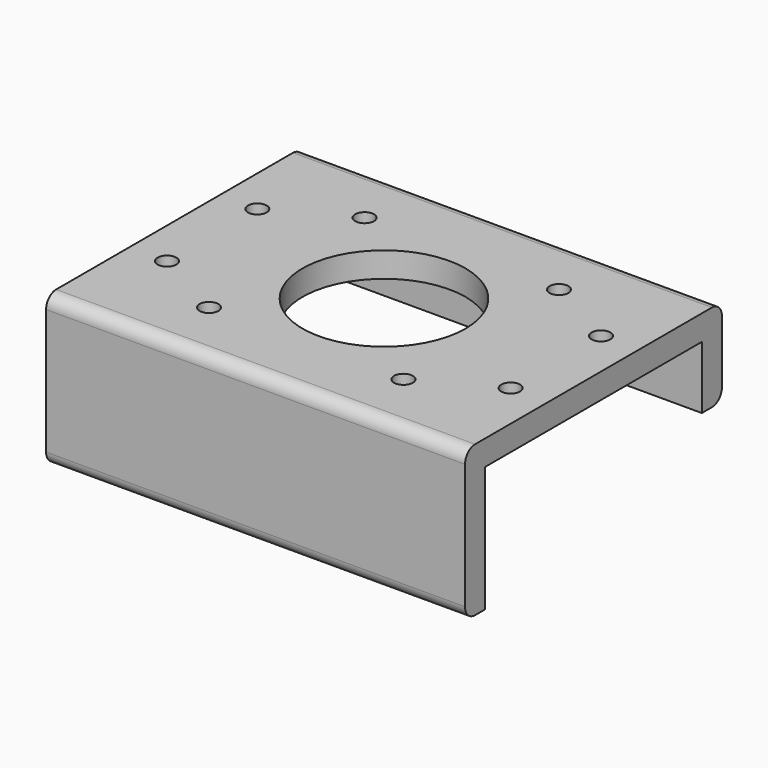
from build123d import *

# Parameters (mm, degrees)
SKETCH003_W     = 66.8
SKETCH003_H     = 42
SKETCH003_R     = 1.5
SKETCH003_R_2   = 13
PAD003_DEPTH    = 4
PAD003_FACE3_W  = 66.8
PAD003_FACE3_H  = 4
PAD004_DEPTH    = 0.6
PAD004_FACE19_W = 66.8
PAD004_FACE19_H = 4
PAD005_DEPTH    = 4
PAD005_FACE21_W = 4
PAD005_FACE21_H = 66.8
PAD006_DEPTH    = 20
PAD006_FACE1_W  = 66.8
PAD006_FACE1_H  = 4
PAD007_DEPTH    = 0.6
PAD007_FACE11_W = 66.8
PAD007_FACE11_H = 4
PAD008_DEPTH    = 4
PAD008_FACE28_W = 4
PAD008_FACE28_H = 66.8
PAD009_DEPTH    = 10
FILLET003_R     = 2


with BuildPart() as part:
    # Sketch003 → Pad003 (new body)
    with BuildSketch(Plane.XY):
        with Locations((0, -35)):
            Rectangle(SKETCH003_W, SKETCH003_H)
        with Locations((-27.4, -26)):
            Circle(SKETCH003_R, mode=Mode.SUBTRACT)
        with Locations((0, -35)):
            Circle(SKETCH003_R_2, mode=Mode.SUBTRACT)
        with Locations((27.4, -26)):
            Circle(SKETCH003_R, mode=Mode.SUBTRACT)
        with Locations((27.4, -44)):
            Circle(SKETCH003_R, mode=Mode.SUBTRACT)
        with Locations((-27.4, -44)):
            Circle(SKETCH003_R, mode=Mode.SUBTRACT)
        with Locations((-15.5, -50.5)):
            Circle(SKETCH003_R, mode=Mode.SUBTRACT)
        with Locations((15.5, -50.5)):
            Circle(SKETCH003_R, mode=Mode.SUBTRACT)
        with Locations((-15.5, -19.5)):
            Circle(SKETCH003_R, mode=Mode.SUBTRACT)
        with Locations((15.5, -19.5)):
            Circle(SKETCH003_R, mode=Mode.SUBTRACT)
    extrude(amount=PAD003_DEPTH)

    # Pad003 Face3 → Pad004 (add)
    with BuildSketch(Plane(origin=(0, -56, 2), x_dir=(-1, 0, 0), z_dir=(0, -1, 0))):
        Rectangle(PAD003_FACE3_W, PAD003_FACE3_H)
    extrude(amount=PAD004_DEPTH)

    # Pad004 Face19 → Pad005 (add)
    with BuildSketch(Plane(origin=(0, -56.6, 2), x_dir=(-1, 0, 0), z_dir=(0, -1, 0))):
        Rectangle(PAD004_FACE19_W, PAD004_FACE19_H)
    extrude(amount=PAD005_DEPTH)

    # Pad005 Face21 → Pad006 (add)
    with BuildSketch(Plane(origin=(0, -58.6, 0), x_dir=(0, -1, 0), z_dir=(0, 0, -1))):
        Rectangle(PAD005_FACE21_W, PAD005_FACE21_H)
    extrude(amount=PAD006_DEPTH)

    # Pad006 Face1 → Pad007 (add)
    with BuildSketch(Plane(origin=(0, -14, 2), x_dir=(1, 0, 0), z_dir=(0, 1, 0))):
        Rectangle(PAD006_FACE1_W, PAD006_FACE1_H)
    extrude(amount=PAD007_DEPTH)

    # Pad007 Face11 → Pad008 (add)
    with BuildSketch(Plane(origin=(0, -13.4, 2), x_dir=(1, 0, 0), z_dir=(0, 1, 0))):
        Rectangle(PAD007_FACE11_W, PAD007_FACE11_H)
    extrude(amount=PAD008_DEPTH)

    # Pad008 Face28 → Pad009 (add)
    with BuildSketch(Plane(origin=(0, -11.4, 0), x_dir=(0, -1, 0), z_dir=(0, 0, -1))):
        Rectangle(PAD008_FACE28_W, PAD008_FACE28_H)
    extrude(amount=PAD009_DEPTH)

    # Fillet003
    fillet003_edges = [part.edges().sort_by_distance(p)[0] for p in [
        (0, -60.6, -20),
        (0, -60.6, 4),
        (0, -9.4, 4),
        (0, -9.4, -10),
    ]]
    fillet(fillet003_edges, radius=FILLET003_R)


with BuildPart() as part_1:
    # Body001 placement: moved
    add(part.part.moved(Location((0, 0, 52))))


solid = part_1.part
